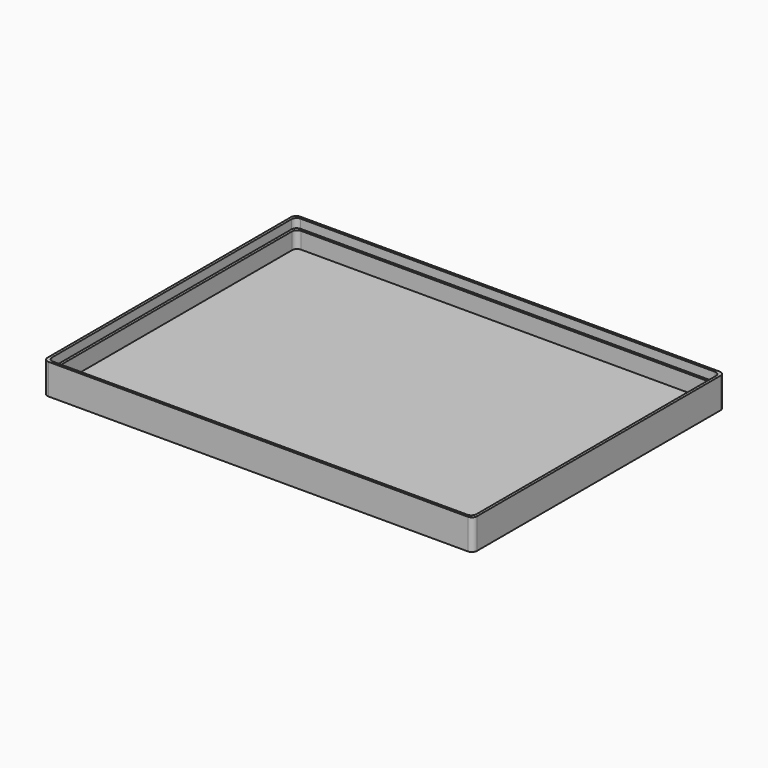
from build123d import *

# Parameters (mm, degrees)
F0_W     = 165
F0_H     = 119.8
F1_DEPTH = 10
F2_T     = 2
F3_W     = 167
F3_H     = 121.8
F4_DEPTH = 3.5
F5_R     = 2


with BuildPart() as f1:
    # F0 (on Top) → F1 (new body)
    with BuildSketch(Plane.XY):
        Rectangle(F0_W, F0_H)
    extrude(amount=F1_DEPTH)

    # F2
    f2_openings = [f1.faces().sort_by_distance(p)[0] for p in [
        (0, 0, 10),
    ]]
    offset(amount=F2_T, openings=f2_openings, kind=Kind.INTERSECTION)

    # F3 (on face) → F4 (cut)
    with BuildSketch(Plane.XY.offset(10)):
        Rectangle(F3_W, F3_H)
    extrude(amount=-F4_DEPTH, mode=Mode.SUBTRACT)

    # F5
    f5_edges = [f1.edges().sort_by_distance(p)[0] for p in [
        (-82.5, -59.9, 3.25),
        (82.5, -59.9, 3.25),
        (82.5, 59.9, 3.25),
        (-82.5, 59.9, 3.25),
        (-83.5, 60.9, 8.25),
        (-84.5, 61.9, 4),
        (83.5, 60.9, 8.25),
        (84.5, 61.9, 4),
        (-84.5, -61.9, 4),
        (-83.5, -60.9, 8.25),
        (84.5, -61.9, 4),
        (83.5, -60.9, 8.25),
    ]]
    fillet(f5_edges, radius=F5_R)


solid = f1.part
